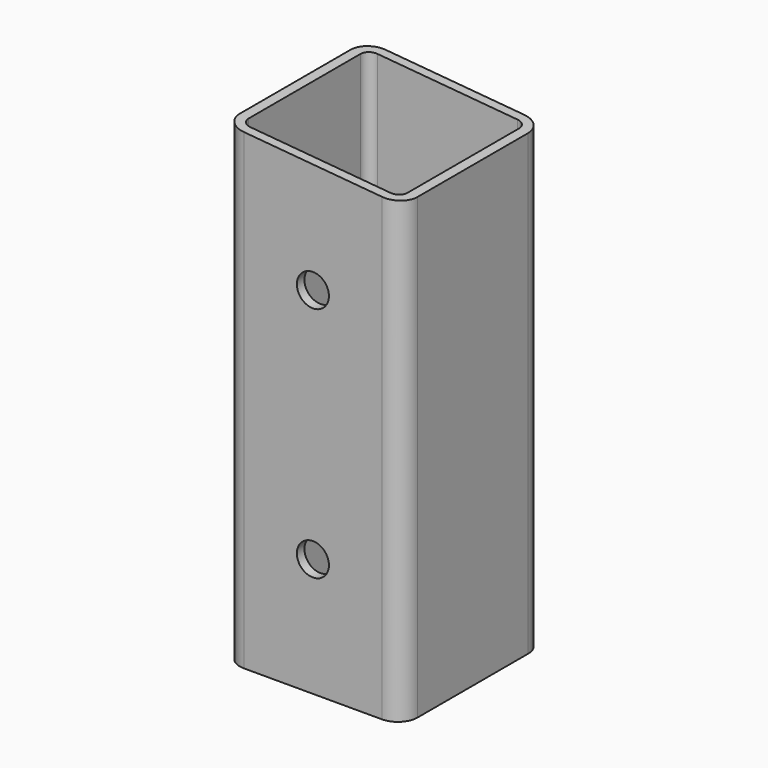
from build123d import *

# Parameters (mm, degrees)
F0_W          = 57.15
F0_H          = 57.15
F0_W_2        = 51.054
F0_H_2        = 51.054
F1_DEPTH      = 152.4
F2_R          = 3.048
F3_R          = 6.35
F5_DEPTH      = 28.576
F5_DEPTH_BACK = 28.576
F6_R          = 5.1562
F7_DEPTH      = 28.576
F7_DEPTH_BACK = 28.576


with BuildPart() as f1:
    # F0 (on Top) → F1 (new body)
    with BuildSketch(Plane.XY):
        Rectangle(F0_W, F0_H)
        Rectangle(F0_W_2, F0_H_2, mode=Mode.SUBTRACT)
    extrude(amount=F1_DEPTH)

    # F2
    f2_edges = [f1.edges().sort_by_distance(p)[0] for p in [
        (25.527, 25.527, 76.2),
        (-25.527, 25.527, 76.2),
        (-25.527, -25.527, 76.2),
        (25.527, -25.527, 76.2),
    ]]
    fillet(f2_edges, radius=F2_R)

    # F3
    f3_edges = [f1.edges().sort_by_distance(p)[0] for p in [
        (-28.575, 28.575, 76.2),
        (-28.575, -28.575, 76.2),
        (28.575, -28.575, 76.2),
        (28.575, 28.575, 76.2),
    ]]
    fillet(f3_edges, radius=F3_R)

    # F4 (on Front) → F5 (cut, two sides)
    with BuildSketch(Plane.XZ) as f5_sk:
        Polygon((-28.575, 152.4), (28.575, 147.4000228795), (28.575, 152.4), align=None)
    extrude(amount=-F5_DEPTH, mode=Mode.SUBTRACT)
    extrude(f5_sk.sketch, amount=F5_DEPTH_BACK, mode=Mode.SUBTRACT)

    # F6 (on Front) → F7 (cut, two sides)
    with BuildSketch(Plane.XZ) as f7_sk:
        with Locations((0, 114.3)):
            Circle(F6_R)
        with Locations((0, 38.1)):
            Circle(F6_R)
    extrude(amount=F7_DEPTH, mode=Mode.SUBTRACT)
    extrude(f7_sk.sketch, amount=-F7_DEPTH_BACK, mode=Mode.SUBTRACT)


solid = f1.part
